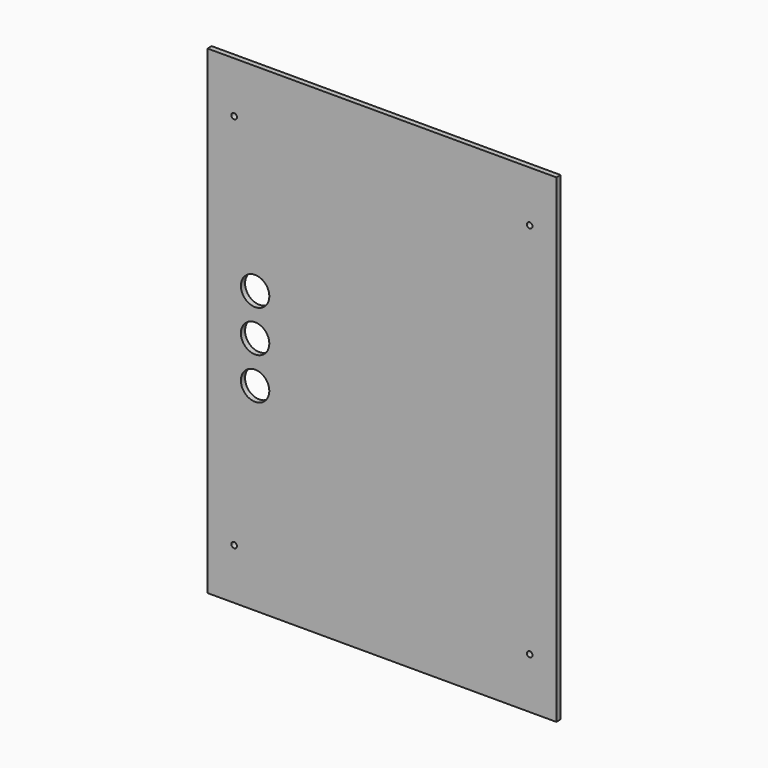
from build123d import *

# Parameters (mm, degrees)
F0_W     = 425
F0_H     = 584
F1_DEPTH = 6.35
F2_D     = 6.8
F3_D     = 34.5948


with BuildPart() as f1:
    # F0 (on Front) → F1 (new body)
    with BuildSketch(Plane.XZ):
        Rectangle(F0_W, F0_H)
    extrude(amount=F1_DEPTH)

    # F2 (through all)
    with Locations(Plane(origin=(0, 0, 0), x_dir=(1, 0, 0), z_dir=(0, 1, 0))):
        with Locations((-180, -230), (-180, 230), (180, 230), (180, -230)):
            Hole(F2_D / 2)

    # F3 (through all)
    with Locations(Plane(origin=(0, 0, 0), x_dir=(1, 0, 0), z_dir=(0, 1, 0))):
        with Locations((-154.5, -50.8), (-154.5, 0), (-154.5, 50.8)):
            Hole(F3_D / 2)


solid = f1.part
